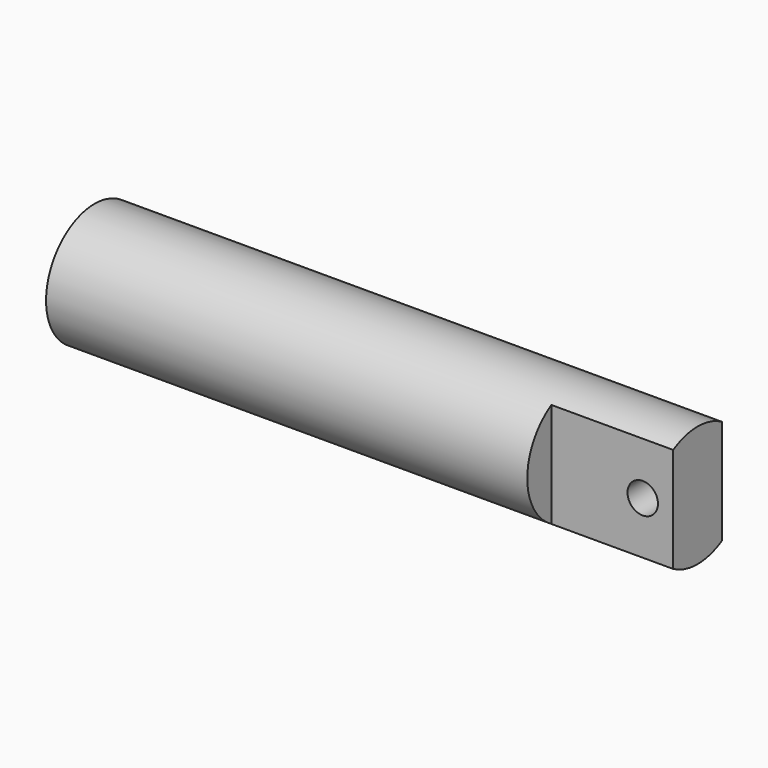
from build123d import *

# Parameters (mm, degrees)
F0_W     = 127
F0_H     = 12.6365
F3_DEPTH = 25.4
F4_R     = 3.175
F5_DEPTH = 12.7


with BuildPart() as f1:
    # F0 (on Front) → F1 (revolve)
    with BuildSketch(Plane.XZ):
        with Locations((69.85, 6.31825)):
            Rectangle(F0_W, F0_H)
    revolve(axis=Axis((-3.592643, 0, 0), (1, 0, 0)))

    # F2 (on face) → F3 (cut)
    with BuildSketch(Plane.YZ.offset(133.35)):
        with BuildLine():
            ThreePointArc((6.35, -10.998523), (12.7, 0), (6.35, 10.998523))
            Line((6.35, 10.998523), (6.35, -10.998523))
        make_face()
        with BuildLine():
            Line((-6.35, -10.998523), (-6.35, 10.998523))
            ThreePointArc((-6.35, 10.998523), (-12.7, 0), (-6.35, -10.998523))
        make_face()
    extrude(amount=-F3_DEPTH, mode=Mode.SUBTRACT)

    # F4 (on Front) → F5 (cut, symmetric)
    with BuildSketch(Plane.XZ):
        with Locations((127, 0)):
            Circle(F4_R)
    extrude(amount=F5_DEPTH, both=True, mode=Mode.SUBTRACT)

    # F6 (on face) → F7 (revolve, cut)
    with BuildSketch(Plane(origin=(6.35, 0, 0), x_dir=(0, -1, 0), z_dir=(-1, 0, 0))):
        with BuildLine():
            Line((0, 12.7), (0, -12.7))
            ThreePointArc((0, -12.7), (12.7, 0), (0, 12.7))
        make_face()
    revolve(axis=Axis((6.35, 0, -4.069372), (0, 0, -1)), mode=Mode.SUBTRACT)


solid = f1.part
